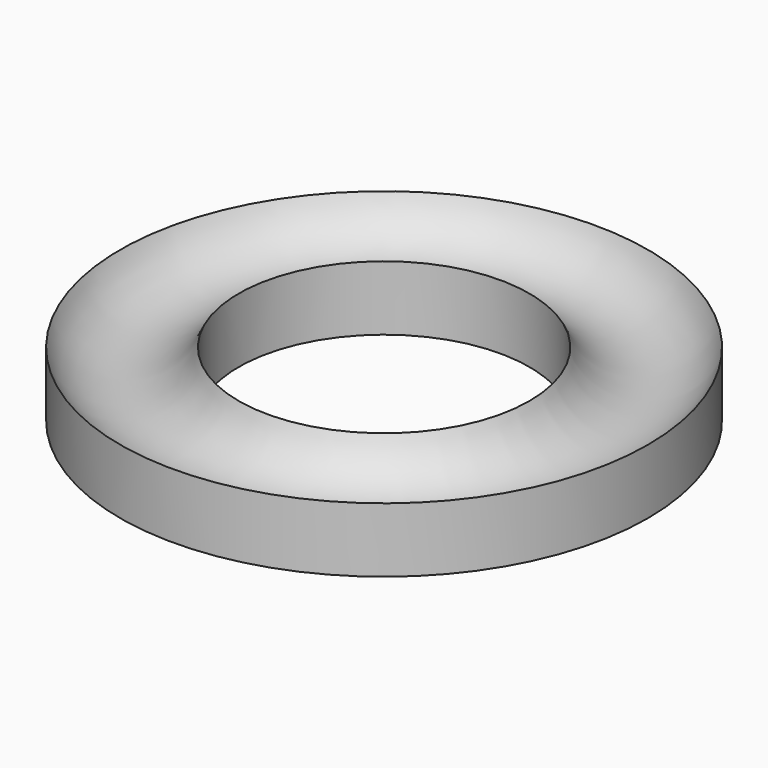
from build123d import *

# Parameters (mm, degrees)
F0_R     = 24.5
F0_R_2   = 13.5
F1_DEPTH = 2


with BuildPart() as f1:
    # F0 (on Top) → F1 (new body)
    with BuildSketch(Plane.XY):
        Circle(F0_R)
        Circle(F0_R_2, mode=Mode.SUBTRACT)
    extrude(amount=F1_DEPTH)

    # F2 (on Front) → F3 (revolve)
    with BuildSketch(Plane.XZ):
        with BuildLine():
            Line((13.5, 0), (24.5, 0))
            Line((24.5, 0), (24.5, 6))
            ThreePointArc((24.5, 6), (19, 2.221234), (13.5, 6))
            Line((13.5, 6), (13.5, 0))
        make_face()
    revolve(axis=Axis((0, 0, 0.193171), (0, 0, -1)))


solid = f1.part
